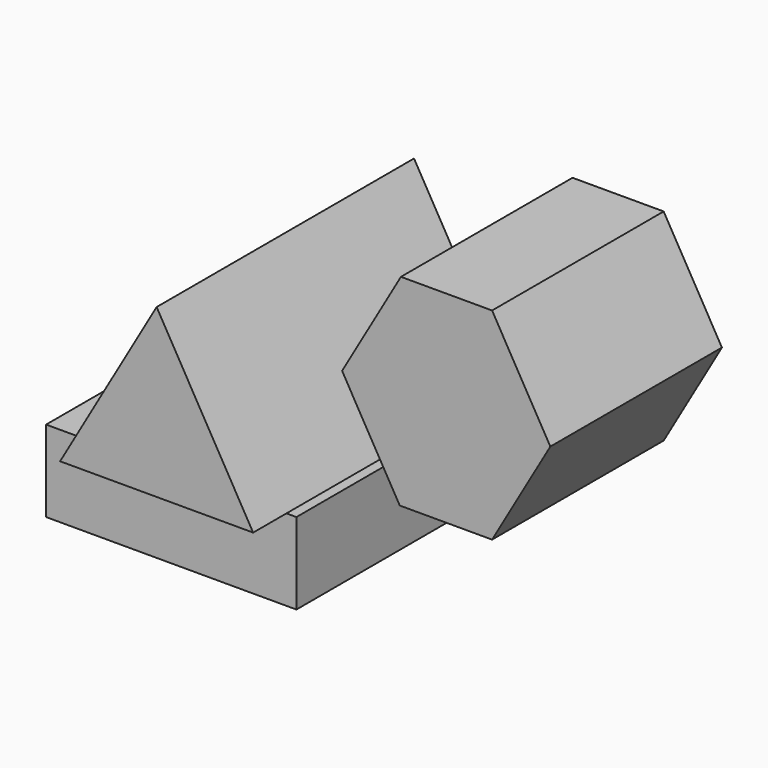
from build123d import *

# Parameters (mm, degrees)
F1_DEPTH = 25
F3_DEPTH = 50
F4_DEPTH = 50
F5_W     = 58.354319
F5_H     = 18.979319
F6_DEPTH = 50


with BuildPart() as f1:
    # F0 (on Front) → F1 (new body)
    with BuildSketch(Plane.XZ):
        Polygon((-45, 0), (0, 0), (-22.5, 38.971143), align=None)
    extrude(amount=F1_DEPTH)

    # F1_face (on face) → F4 (join)
    with BuildSketch(Plane(origin=(-22.5, -25, 12.990381), x_dir=(1, 0, 0), z_dir=(0, -1, 0))):
        Polygon((0, 25.980762), (-22.5, -12.990381), (22.5, -12.990381), align=None)
    extrude(amount=F4_DEPTH)


with BuildPart() as f3:
    # F2 (on Front) → F3 (new body)
    with BuildSketch(Plane.XZ):
        Polygon((0.730825, 23.266371), (14.163671, 0), (35.69245, 0), (49.266932, 23.511693), (35.69245, 47.023386), (14.446944, 47.023386), align=None)
    extrude(amount=F3_DEPTH)


with BuildPart() as f6:
    # F5 (on Front) → F6 (new body)
    with BuildSketch(Plane.XZ):
        with Locations((-39.091729, -19.687501)):
            Rectangle(F5_W, F5_H)
    extrude(amount=F6_DEPTH)


solid = Compound([f1.part, f3.part, f6.part])
